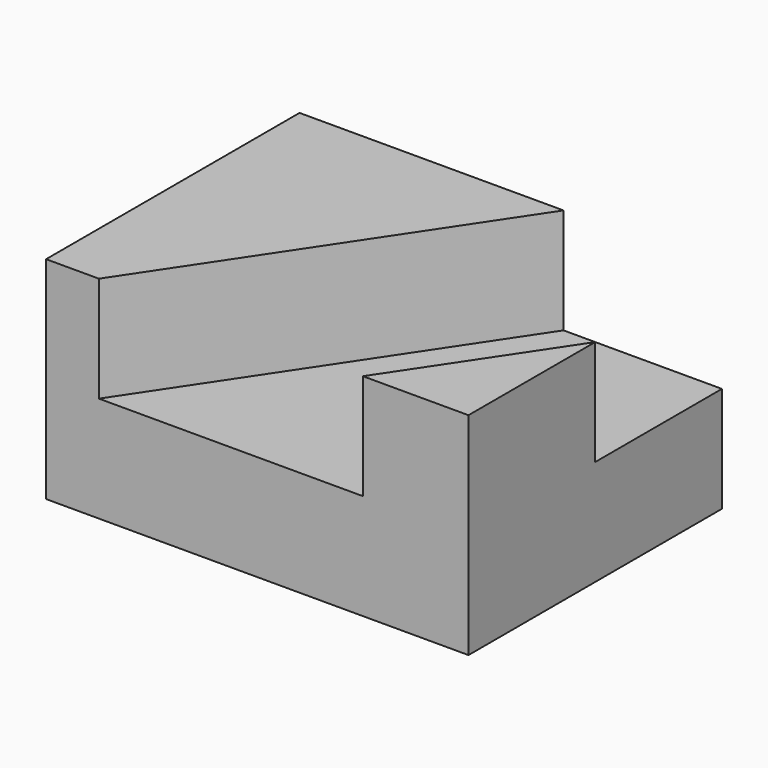
from build123d import *

# Parameters (mm, degrees)
F0_W     = 101.6
F0_H     = 76.2
F1_DEPTH = 25.4
F3_DEPTH = 25.4


with BuildPart() as f1:
    # F0 (on Top) → F1 (new body)
    with BuildSketch(Plane.XY):
        with Locations((9.569826, -3.107765)):
            Rectangle(F0_W, F0_H)
    extrude(amount=-F1_DEPTH)

    # F2 (on face) → F3 (join)
    with BuildSketch(Plane.XY):
        Polygon((-41.230174, -41.207765), (-28.530174, -41.207765), (22.269826, 34.992235), (-41.230174, 34.992235), align=None)
        Polygon((34.969826, -41.207765), (60.369826, -41.207765), (60.369826, -3.107765), align=None)
    extrude(amount=F3_DEPTH)


solid = f1.part
